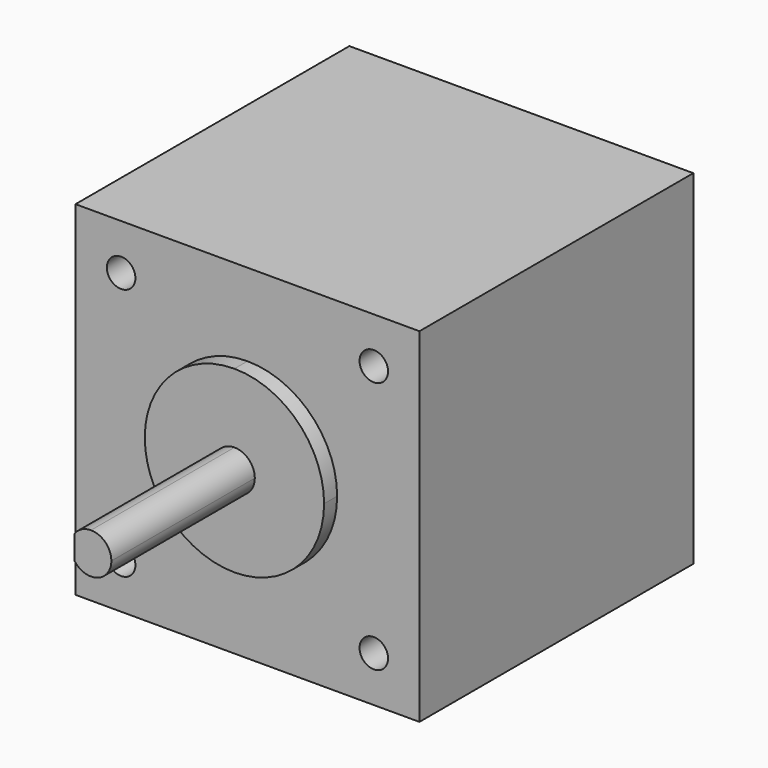
from build123d import *

# Parameters (mm, degrees)
F0_R     = 1.75
F1_DEPTH = 42
F2_DEPTH = 2
F3_DEPTH = 24
F4_DEPTH = 10
F6_DEPTH = 18


with BuildPart() as f1:
    # F0 (on Front) → F1 (new body)
    with BuildSketch(Plane.XZ):
        Polygon((21.1, 21.1), (0, 21.1), (-21.1, 21.1), (-21.1, 0), (-21.1, -21.1), (0, -21.1), (21.1, -21.1), (21.1, 0), align=None)
        with Locations((-15.5, -15.5)):
            Circle(F0_R, mode=Mode.SUBTRACT)
        with Locations((15.5, -15.5)):
            Circle(F0_R, mode=Mode.SUBTRACT)
        with Locations((-15.5, 15.5)):
            Circle(F0_R, mode=Mode.SUBTRACT)
        with BuildLine():
            ThreePointArc((0, 11), (7.778175, 7.778175), (11, 0))
            ThreePointArc((11, 0), (7.778175, -7.778175), (0, -11))
            ThreePointArc((0, -11), (-7.778175, -7.778175), (-11, 0))
            ThreePointArc((-11, 0), (-7.778175, 7.778175), (0, 11))
        make_face(mode=Mode.SUBTRACT)
        with Locations((15.5, 15.5)):
            Circle(F0_R, mode=Mode.SUBTRACT)
        with BuildLine():
            ThreePointArc((0, -11), (7.778175, -7.778175), (11, 0))
            ThreePointArc((11, 0), (7.778175, 7.778175), (0, 11))
            ThreePointArc((0, 11), (-7.778175, 7.778175), (-11, 0))
            ThreePointArc((-11, 0), (-7.778175, -7.778175), (0, -11))
        make_face()
        with BuildLine():
            ThreePointArc((0, 2.5), (1.767767, 1.767767), (2.5, 0))
            ThreePointArc((2.5, 0), (1.767767, -1.767767), (0, -2.5))
            ThreePointArc((0, -2.5), (-1.767767, -1.767767), (-2.5, 0))
            ThreePointArc((-2.5, 0), (-1.767767, 1.767767), (0, 2.5))
        make_face(mode=Mode.SUBTRACT)
        with BuildLine():
            ThreePointArc((0, -2.5), (1.767767, -1.767767), (2.5, 0))
            ThreePointArc((2.5, 0), (1.767767, 1.767767), (0, 2.5))
            ThreePointArc((0, 2.5), (-1.767767, 1.767767), (-2.5, 0))
            ThreePointArc((-2.5, 0), (-1.767767, -1.767767), (0, -2.5))
        make_face()
        with Locations((15.5, 15.5)):
            Circle(F0_R)
        with Locations((-15.5, 15.5)):
            Circle(F0_R)
        with Locations((-15.5, -15.5)):
            Circle(F0_R)
        with Locations((15.5, -15.5)):
            Circle(F0_R)
    extrude(amount=-F1_DEPTH)

    # F0 (on Front) → F2 (join)
    with BuildSketch(Plane.XZ):
        with BuildLine():
            ThreePointArc((0, -11), (7.778175, -7.778175), (11, 0))
            ThreePointArc((11, 0), (7.778175, 7.778175), (0, 11))
            ThreePointArc((0, 11), (-7.778175, 7.778175), (-11, 0))
            ThreePointArc((-11, 0), (-7.778175, -7.778175), (0, -11))
        make_face()
        with BuildLine():
            ThreePointArc((0, 2.5), (1.767767, 1.767767), (2.5, 0))
            ThreePointArc((2.5, 0), (1.767767, -1.767767), (0, -2.5))
            ThreePointArc((0, -2.5), (-1.767767, -1.767767), (-2.5, 0))
            ThreePointArc((-2.5, 0), (-1.767767, 1.767767), (0, 2.5))
        make_face(mode=Mode.SUBTRACT)
    extrude(amount=F2_DEPTH)

    # F0 (on Front) → F3 (join)
    with BuildSketch(Plane.XZ):
        with BuildLine():
            ThreePointArc((0, -2.5), (1.767767, -1.767767), (2.5, 0))
            ThreePointArc((2.5, 0), (1.767767, 1.767767), (0, 2.5))
            ThreePointArc((0, 2.5), (-1.767767, 1.767767), (-2.5, 0))
            ThreePointArc((-2.5, 0), (-1.767767, -1.767767), (0, -2.5))
        make_face()
    extrude(amount=F3_DEPTH)

    # F0 (on Front) → F4 (cut)
    with BuildSketch(Plane.XZ):
        with Locations((-15.5, 15.5)):
            Circle(F0_R)
        with Locations((15.5, -15.5)):
            Circle(F0_R)
        with Locations((-15.5, -15.5)):
            Circle(F0_R)
        with Locations((15.5, 15.5)):
            Circle(F0_R)
    extrude(amount=-F4_DEPTH, mode=Mode.SUBTRACT)

    # F5 (on face) → F6 (cut)
    with BuildSketch(Plane.XZ.offset(24)):
        with BuildLine():
            Line((-2, 0), (-2, 1.5))
            ThreePointArc((-2, 1.5), (-2.5, 0), (-2, -1.5))
            Line((-2, -1.5), (-2, 0))
        make_face()
    extrude(amount=-F6_DEPTH, mode=Mode.SUBTRACT)


solid = f1.part
